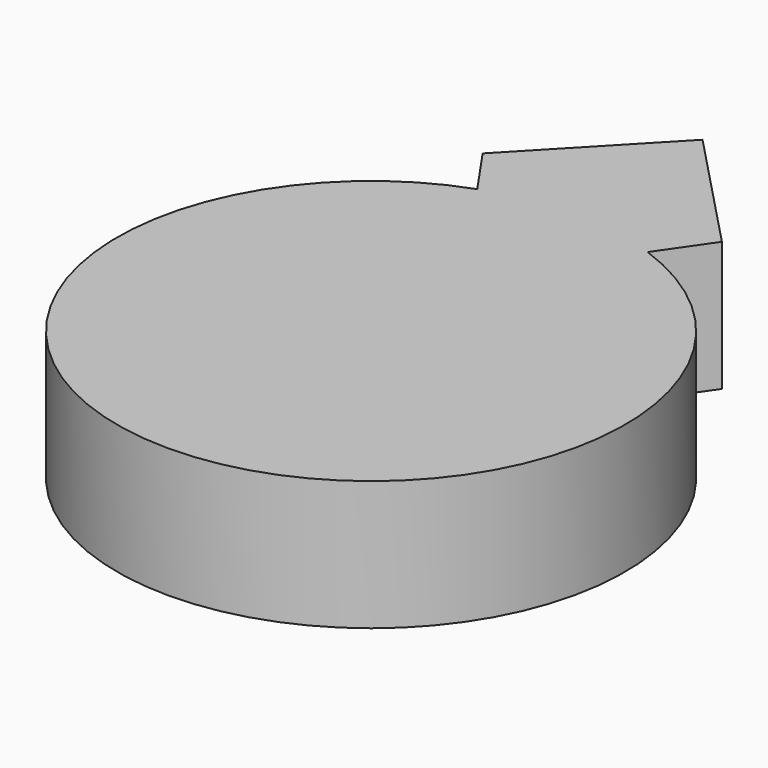
from build123d import *

# Parameters (mm, degrees)
F1_DEPTH = 5


with BuildPart() as f1:
    # F0 (on Top) → F1 (new body)
    with BuildSketch(Plane.XY):
        with BuildLine():
            Line((3.2880722093, 9.2319328109), (4.6180547491, 11.1569797782))
            Line((4.6180547491, 11.1569797782), (0, 15.9943010658))
            Line((0, 15.9943010658), (-4.6180547491, 11.1569797782))
            Line((-4.6180547491, 11.1569797782), (-3.2880722093, 9.2319328109))
            ThreePointArc((-3.2880722093, 9.2319328109), (0, -9.8000001162), (3.2880722093, 9.2319328109))
        make_face()
        with BuildLine():
            ThreePointArc((2, 8.7749643874), (0, -9), (-2, 8.7749643874))
            Line((-2, 8.7749643874), (-3.5895747386, 11.0757510055))
            Line((-3.5895747386, 11.0757510055), (0, 14.8357597625))
            Line((0, 14.8357597625), (3.5895747386, 11.0757510055))
            Line((3.5895747386, 11.0757510055), (2, 8.7749643874))
        make_face(mode=Mode.SUBTRACT)
        with BuildLine():
            ThreePointArc((2, 8.7749643874), (0, 9), (-2, 8.7749643874))
            ThreePointArc((-2, 8.7749643874), (0, -9), (2, 8.7749643874))
        make_face()
        with BuildLine():
            Line((-3.5895747386, 11.0757510055), (-2, 8.7749643874))
            ThreePointArc((-2, 8.7749643874), (0, 9), (2, 8.7749643874))
            Line((2, 8.7749643874), (3.5895747386, 11.0757510055))
            Line((3.5895747386, 11.0757510055), (0, 14.8357597625))
            Line((0, 14.8357597625), (-3.5895747386, 11.0757510055))
        make_face()
    extrude(amount=F1_DEPTH)


solid = f1.part
